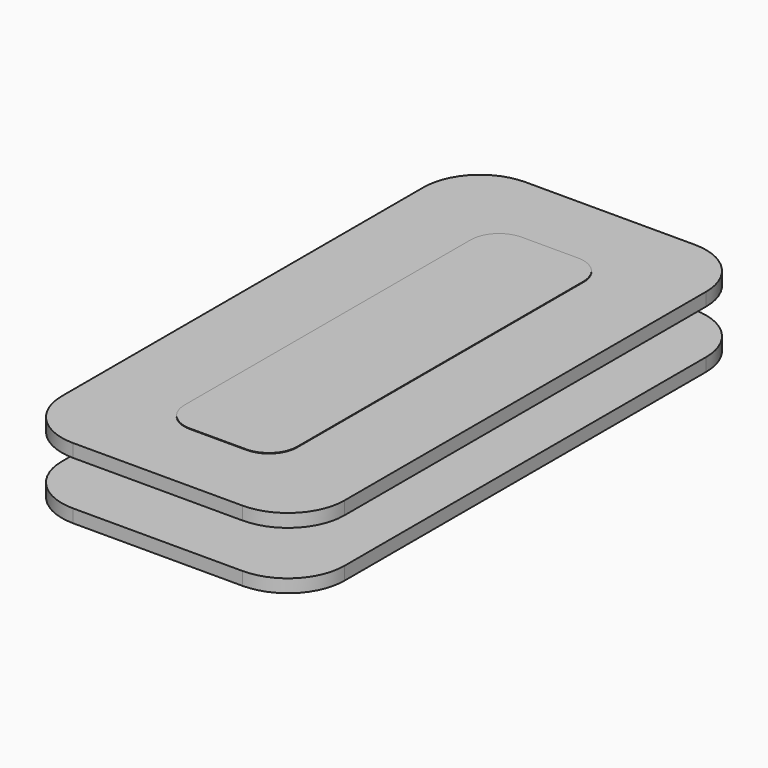
from build123d import *

# Parameters (mm, degrees)
F1_DEPTH = 3.175
F2_W     = 55.1815740764
F2_H     = 3.9936336689
F3_DEPTH = 25.4
F4_DEPTH = 3.2258


with BuildPart() as f1:
    # F0 (on Top) → F1 (new body, symmetric)
    with BuildSketch(Plane.XY):
        with BuildLine():
            ThreePointArc((12.7, 20.32), (11.2121024484, 23.9121024484), (7.62, 25.4))
            Line((7.62, 25.4), (-7.62, 25.4))
            ThreePointArc((-7.62, 25.4), (-11.2121024484, 23.9121024484), (-12.7, 20.32))
            Line((-12.7, 20.32), (-12.7, -20.32))
            ThreePointArc((-12.7, -20.32), (-11.2121024484, -23.9121024484), (-7.62, -25.4))
            Line((-7.62, -25.4), (7.62, -25.4))
            ThreePointArc((7.62, -25.4), (11.2121024484, -23.9121024484), (12.7, -20.32))
            Line((12.7, -20.32), (12.7, 20.32))
        make_face()
        with BuildLine():
            Line((-2.5279878332, 18.6258405447), (2.5279878332, 18.6258405447))
            ThreePointArc((2.5279878332, 18.6258405447), (4.3240390574, 17.8818917689), (5.0679878332, 16.0858405447))
            Line((5.0679878332, 16.0858405447), (5.0679878332, -16.0858405447))
            ThreePointArc((5.0679878332, -16.0858405447), (4.3240390574, -17.8818917689), (2.5279878332, -18.6258405447))
            Line((2.5279878332, -18.6258405447), (-2.5279878332, -18.6258405447))
            ThreePointArc((-2.5279878332, -18.6258405447), (-4.3240390574, -17.8818917689), (-5.0679878332, -16.0858405447))
            Line((-5.0679878332, -16.0858405447), (-5.0679878332, 16.0858405447))
            ThreePointArc((-5.0679878332, 16.0858405447), (-4.3240390574, 17.8818917689), (-2.5279878332, 18.6258405447))
        make_face(mode=Mode.SUBTRACT)
    extrude(amount=F1_DEPTH, both=True)

    # F2 (on face) → F3 (cut)
    with BuildSketch(Plane(origin=(-12.7, 0, 0), x_dir=(0, -1, 0), z_dir=(-1, 0, 0))):
        Rectangle(F2_W, F2_H)
    extrude(amount=-F3_DEPTH, mode=Mode.SUBTRACT)


with BuildPart() as f4:
    # F0 (on Top) → F4 (new body, symmetric)
    with BuildSketch(Plane.XY):
        with BuildLine():
            ThreePointArc((5.0679878332, 16.0858405447), (4.3240390574, 17.8818917689), (2.5279878332, 18.6258405447))
            Line((2.5279878332, 18.6258405447), (-2.5279878332, 18.6258405447))
            ThreePointArc((-2.5279878332, 18.6258405447), (-4.3240390574, 17.8818917689), (-5.0679878332, 16.0858405447))
            Line((-5.0679878332, 16.0858405447), (-5.0679878332, -16.0858405447))
            ThreePointArc((-5.0679878332, -16.0858405447), (-4.3240390574, -17.8818917689), (-2.5279878332, -18.6258405447))
            Line((-2.5279878332, -18.6258405447), (2.5279878332, -18.6258405447))
            ThreePointArc((2.5279878332, -18.6258405447), (4.3240390574, -17.8818917689), (5.0679878332, -16.0858405447))
            Line((5.0679878332, -16.0858405447), (5.0679878332, 16.0858405447))
        make_face()
    extrude(amount=F4_DEPTH, both=True)


solid = Compound([f1.part, f4.part])
